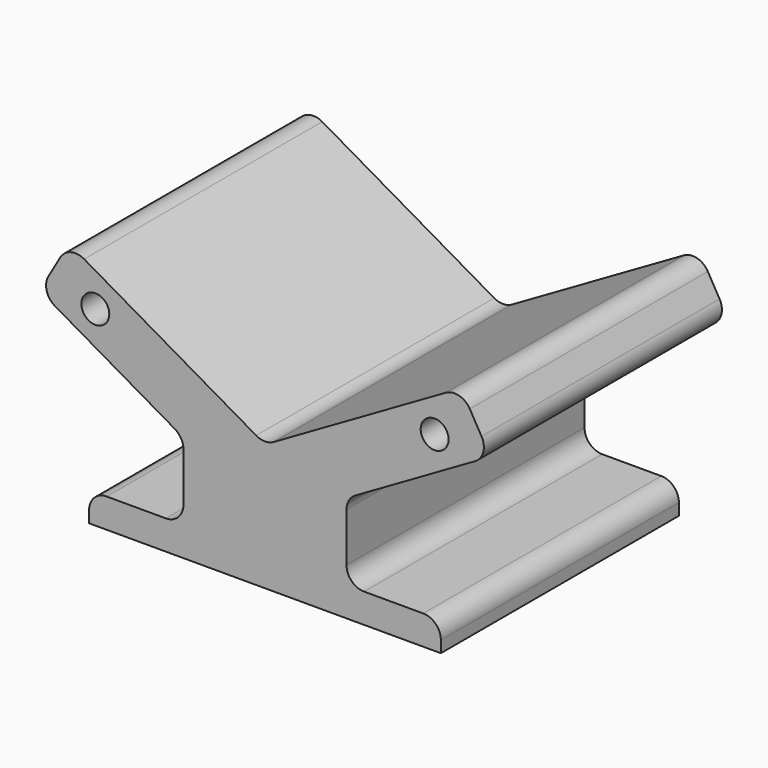
from build123d import *

# Parameters (mm, degrees)
F0_R     = 2.38125
F1_DEPTH = 50.76
F2_R     = 3


with BuildPart() as f1:
    # F0 (on Front) → F1 (new body)
    with BuildSketch(Plane.XZ):
        Polygon((13.911133, -49.24), (30, -49.24), (30, -44.24), (13.911133, -44.24), (13.911133, -31.161906), (38.442495, -16.998718), (33.442495, -8.338464), (0, -27.646497), (-33.442495, -8.338464), (-38.442495, -16.998718), (-13.911133, -31.161906), (-13.911133, -44.24), (-30, -44.24), (-30, -49.24), (-13.911133, -49.24), align=None)
        with Locations((-28.942569, -16.71)):
            Circle(F0_R, mode=Mode.SUBTRACT)
        with Locations((28.942569, -16.71)):
            Circle(F0_R, mode=Mode.SUBTRACT)
    extrude(amount=F1_DEPTH)

    # F2
    f2_edges = [f1.edges().sort_by_distance(p)[0] for p in [
        (-33.442495, -25.38, -8.338464),
        (-38.442495, -25.38, -16.998718),
        (0, -25.38, -27.646497),
        (33.442495, -25.38, -8.338464),
        (38.442495, -25.38, -16.998718),
        (13.911133, -25.38, -31.161906),
        (13.911133, -25.38, -44.24),
        (-13.911133, -25.38, -31.161906),
        (-13.911133, -25.38, -44.24),
        (-30, -25.38, -44.24),
        (30, -25.38, -44.24),
    ]]
    fillet(f2_edges, radius=F2_R)


solid = f1.part
